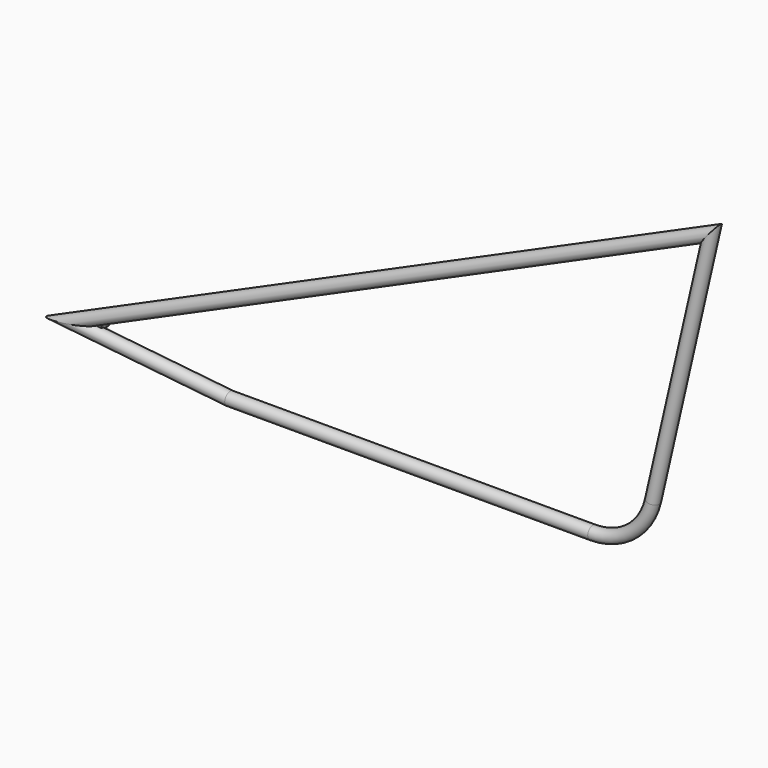
from build123d import *

# Parameters (mm, degrees)
F1_R     = 15.875
F3_R     = 12.7
F4_DEPTH = 25.4


with BuildPart() as f2:
    # F2: sweep along a path in F0
    with BuildLine(Plane.XZ) as f2_path:
        Line((-344.3413384318, -41.1043575529), (550.2936645415, -41.1043575529))
        ThreePointArc((550.2936645415, -41.1043575529), (645.2322257553, -7.9202524438), (698.826283108, 77.1808183703))
        Line((698.826283108, 77.1808183703), (842.452537594, 702.5155299205))
        Line((842.452537594, 702.5155299205), (-735.4231768463, 0))
        Line((-735.4231768463, 0), (-344.3413384318, -41.1043575529))
    # F1 (on Right) → F2 (sweep)
    with BuildSketch(Plane.YZ):
        with Locations((0, -41.1043575529)):
            Circle(F1_R)
    sweep(path=f2_path.line, transition=Transition.RIGHT)

    # F3 (on Front) → F4 (join)
    with BuildSketch(Plane.XZ):
        with Locations((-673.5896468163, 10.256302543)):
            Circle(F3_R)
    extrude(amount=-F4_DEPTH)


solid = f2.part
